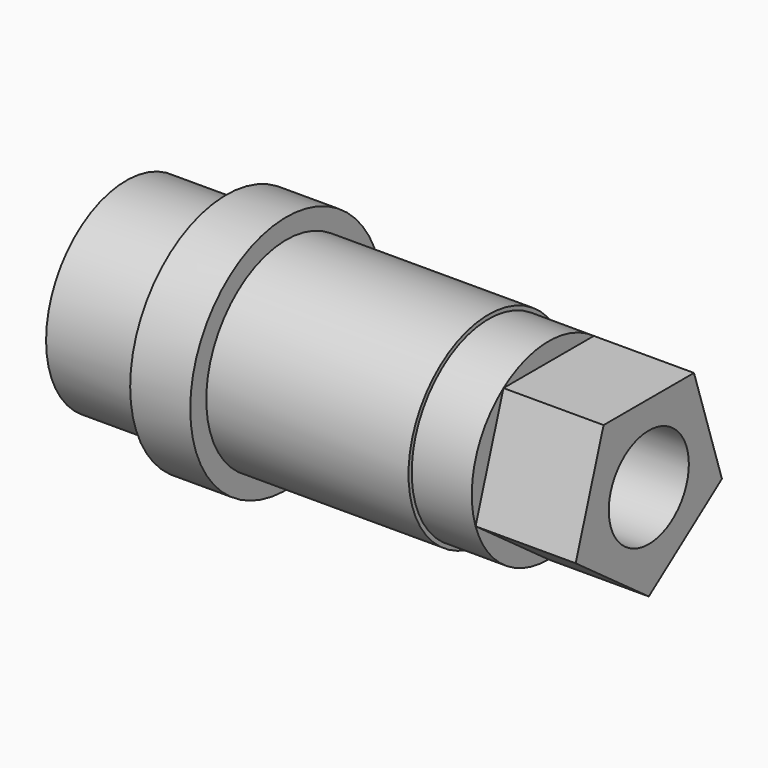
from build123d import *

# Parameters (mm, degrees)
F0_R      = 5
F1_DEPTH  = 10.1
F2_R      = 4.8
F3_DEPTH  = 3
F5_DEPTH  = 5
F6_R      = 6
F7_DEPTH  = 3
F8_R      = 5
F9_DEPTH  = 5
F10_R     = 2.5
F11_DEPTH = 80


with BuildPart() as f1:
    # F0 (on Right) → F1 (new body)
    with BuildSketch(Plane.YZ):
        Circle(F0_R)
    extrude(amount=-F1_DEPTH)

    # F2 (on face) → F3 (join)
    with BuildSketch(Plane.YZ):
        Circle(F2_R)
    extrude(amount=F3_DEPTH)

    # F4 (on face) → F5 (join)
    with BuildSketch(Plane.YZ.offset(3)):
        Polygon((-4.565071, -1.483282), (0, -4.8), (4.565071, -1.483282), (2.821369, 3.883282), (-2.821369, 3.883282), align=None)
    extrude(amount=F5_DEPTH)

    # F6 (on face) → F7 (join)
    with BuildSketch(Plane(origin=(-10.1, 0, 0), x_dir=(0, -1, 0), z_dir=(-1, 0, 0))):
        Circle(F6_R)
    extrude(amount=F7_DEPTH)

    # F8 (on face) → F9 (join)
    with BuildSketch(Plane(origin=(-13.1, 0, 0), x_dir=(0, -1, 0), z_dir=(-1, 0, 0))):
        Circle(F8_R)
    extrude(amount=F9_DEPTH)

    # F10 (on face) → F11 (cut)
    with BuildSketch(Plane.YZ.offset(8)):
        Circle(F10_R)
    extrude(amount=-F11_DEPTH, mode=Mode.SUBTRACT)


solid = f1.part
